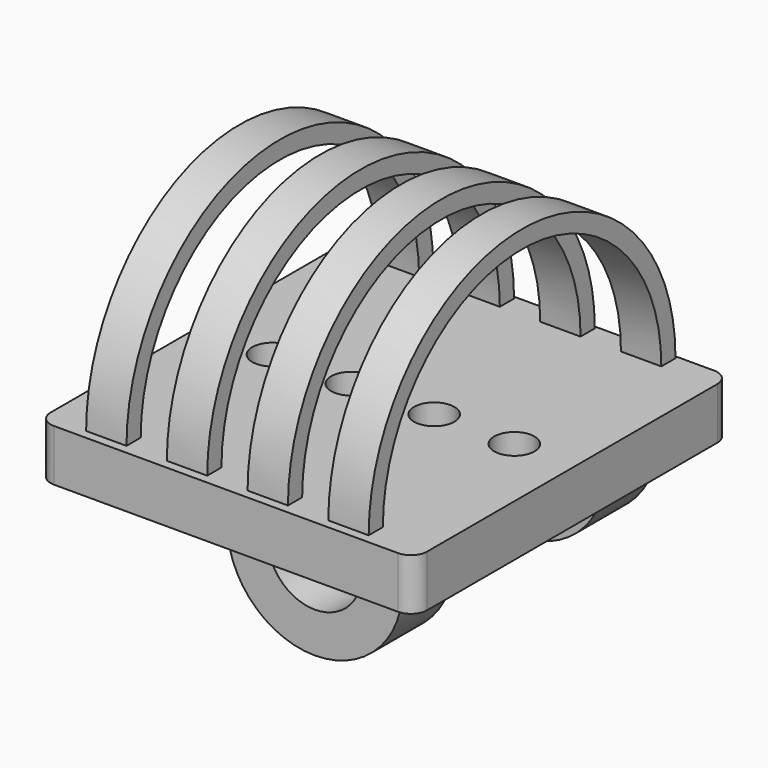
from build123d import *

# Parameters (mm, degrees)
F0_W     = 12.7
F0_H     = 5.5795572698
F1_ANGLE = 180
F0_H_2   = 5.5912099779
F2_W     = 118.4605003471
F2_H     = 44.6357212043
F2_H_2   = 40.7499843153
F2_R     = 6.35
F2_H_3   = 38.9630381748
F3_DEPTH = 16.256
F4_R     = 5.08
F5_W     = 12.7
F5_H     = 20.32
F6_ANGLE = 180


with BuildPart() as f1:
    # F0 (on Top) → F1 (revolve)
    with BuildSketch(Plane.XY):
        with Locations((47.3719570518, 57.5487148017)):
            Rectangle(F0_W, F0_H)
    revolve(axis=Axis((3.7274751812, 0, 0), (1, 0, 0)), revolution_arc=F1_ANGLE)


with BuildPart() as f1b:
    # F0 (on Top) → F1, piece 2 (revolve)
    with BuildSketch(Plane.XY):
        with Locations((21.9719570518, 57.5428884476)):
            Rectangle(F0_W, F0_H_2)
    revolve(axis=Axis((3.7274751812, 0, 0), (1, 0, 0)), revolution_arc=F1_ANGLE)


with BuildPart() as f1c:
    # F0 (on Top) → F1, piece 3 (revolve)
    with BuildSketch(Plane.XY):
        with Locations((-3.4280429482, 57.5428884476)):
            Rectangle(F0_W, F0_H_2)
    revolve(axis=Axis((3.7274751812, 0, 0), (1, 0, 0)), revolution_arc=F1_ANGLE)


with BuildPart() as f1d:
    # F0 (on Top) → F1, piece 4 (revolve)
    with BuildSketch(Plane.XY):
        with Locations((-28.8280429482, 57.5428884476)):
            Rectangle(F0_W, F0_H_2)
    revolve(axis=Axis((3.7274751812, 0, 0), (1, 0, 0)), revolution_arc=F1_ANGLE)


with BuildPart() as f3:
    # F2 (on Top) → F3 (new body)
    with BuildSketch(Plane.XY):
        with Locations((11.1031317058, -40.8927433193)):
            Rectangle(F2_W, F2_H)
        with Locations((11.1031317058, 1.8001094405)):
            Rectangle(F2_W, F2_H_2)
        with Locations((-24.8246304691, 0)):
            Circle(F2_R, mode=Mode.SUBTRACT)
        Circle(F2_R, mode=Mode.SUBTRACT)
        with Locations((26.0701384395, 0)):
            Circle(F2_R, mode=Mode.SUBTRACT)
        with Locations((51.2833818793, 0)):
            Circle(F2_R, mode=Mode.SUBTRACT)
        with Locations((11.1031317058, 41.6566206855)):
            Rectangle(F2_W, F2_H_3)
    extrude(amount=-F3_DEPTH)

    # F4
    f4_edges = [f3.edges().sort_by_distance(p)[0] for p in [
        (-48.127118, 61.13814, -8.128),
        (-48.127118, -63.210604, -8.128),
        (70.333382, -63.210604, -8.128),
        (70.333382, 61.13814, -8.128),
    ]]
    fillet(f4_edges, radius=F4_R)


with BuildPart() as f6:
    # F5 (on face) → F6 (revolve)
    with BuildSketch(Plane(origin=(0, 0, -16.256), x_dir=(1, 0, 0), z_dir=(0, 0, -1))):
        with Locations((51.9764303348, 42.5882383884)):
            Rectangle(F5_W, F5_H)
    revolve(axis=Axis((30.7304244488, -1.0362320742, -16.256), (0, 1, 0)), revolution_arc=F6_ANGLE)


with BuildPart() as f6b:
    # F5 (on face) → F6, piece 2 (revolve)
    with BuildSketch(Plane(origin=(0, 0, -16.256), x_dir=(1, 0, 0), z_dir=(0, 0, -1))):
        with Locations((51.6396296067, -37.8969784529)):
            Rectangle(F5_W, F5_H)
    revolve(axis=Axis((30.7304244488, -1.0362320742, -16.256), (0, 1, 0)), revolution_arc=F6_ANGLE)


solid = Compound([f1.part, f1b.part, f1c.part, f1d.part, f3.part, f6.part, f6b.part])
